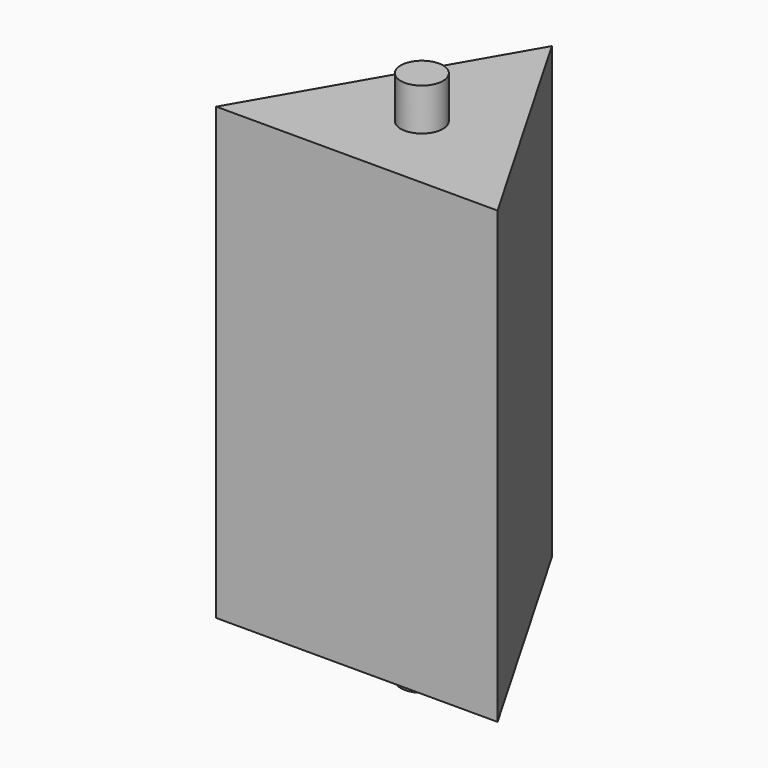
from build123d import *

# Parameters (mm, degrees)
F1_DEPTH = 50.8
F2_R     = 4.7625
F3_DEPTH = 60.325


with BuildPart() as f1:
    # F0 (on Top) → F1 (new body, symmetric)
    with BuildSketch(Plane.XY):
        Polygon((31.75, -18.330871), (0, 36.661742), (-31.75, -18.330871), align=None)
    extrude(amount=F1_DEPTH, both=True)

    # F2 (on Top) → F3 (join, symmetric)
    with BuildSketch(Plane.XY):
        Circle(F2_R)
    extrude(amount=F3_DEPTH, both=True)


solid = f1.part
